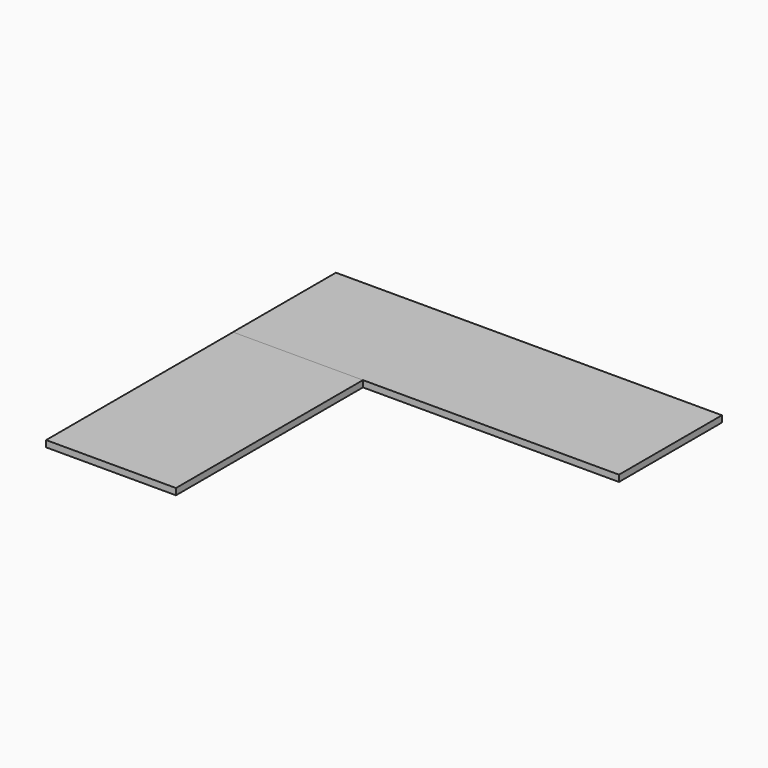
from build123d import *

# Parameters (mm, degrees)
F1_W     = 512.7957314253
F1_H     = 922.7532944461
F2_DEPTH = 25.4
F0_W     = 1524
F0_H     = 508


with BuildPart() as f2:
    # F1 (on face) → F2 (new body)
    with BuildSketch(Plane.XY):
        with Locations((-339.8104086518, -587.9963834395)):
            Rectangle(F1_W, F1_H)
    extrude(amount=F2_DEPTH)


with BuildPart() as f2b:
    # F0 (on Top) → F2, piece 2 (new body)
    with BuildSketch(Plane.XY):
        with Locations((165.3649508953, 127.3802637835)):
            Rectangle(F0_W, F0_H)
    extrude(amount=F2_DEPTH)


solid = Compound([f2.part, f2b.part])
